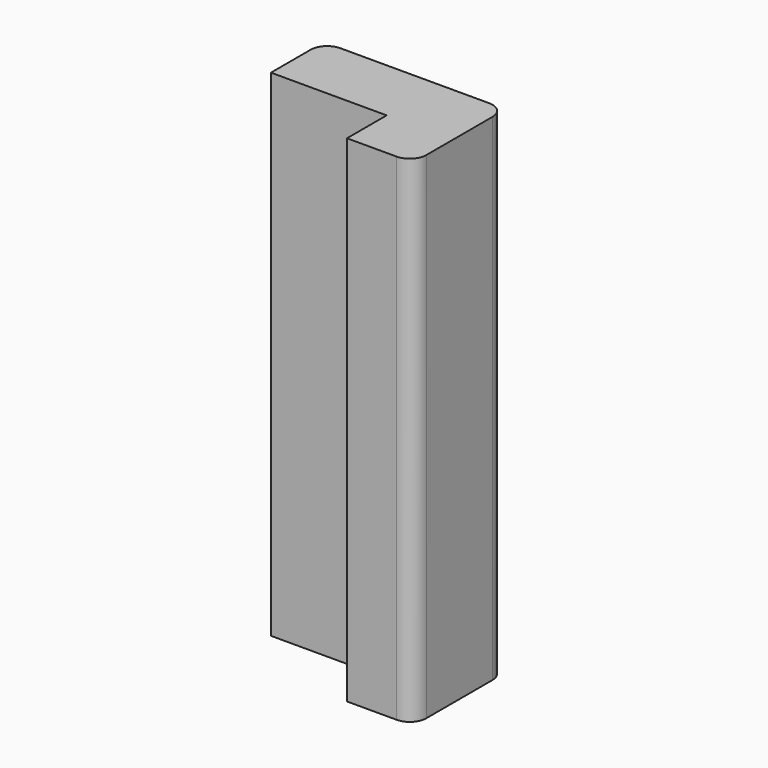
from build123d import *

# Parameters (mm, degrees)
F1_DEPTH = 30
F2_R     = 1


with BuildPart() as f1:
    # F0 (on Top) → F1 (new body)
    with BuildSketch(Plane.XY):
        Polygon((-7, 0), (0, 0), (0, -3), (4, -3), (4, 4), (-7, 4), align=None)
    extrude(amount=F1_DEPTH)

    # F2
    f2_edges = [f1.edges().sort_by_distance(p)[0] for p in [
        (4, -3, 15),
        (-7, 4, 15),
        (4, 4, 15),
    ]]
    fillet(f2_edges, radius=F2_R)


solid = f1.part
